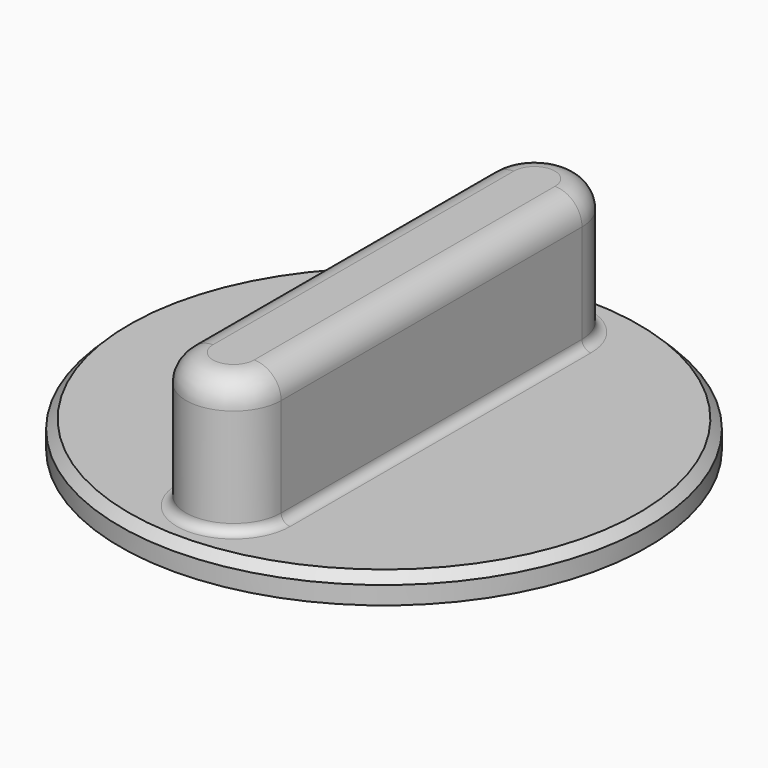
from build123d import *

# Parameters (mm, degrees)
SKETCH018_R     = 29.334526
PAD014_DEPTH    = 3
PAD015_DEPTH    = 15
CHAMFER002_SIZE = 1
FILLET011_R     = 1
FILLET012_R     = 3


with BuildPart() as part:
    # Sketch018 (on DatumPlane) → Pad014 (new body)
    with BuildSketch(Plane(origin=(17.147982, 155.978406, 843), x_dir=(0, 1, 0), z_dir=(0, 0, 1))):
        Circle(SKETCH018_R)
    extrude(amount=PAD014_DEPTH)

    # Sketch019 (on Face3 of Pad014) → Pad015 (join)
    with BuildSketch(Plane(origin=(17.147982, 155.978406, 846), x_dir=(0, 1, 0), z_dir=(0, 0, 1))):
        with BuildLine():
            ThreePointArc((-20.899313, 5.287957), (-26.18727, 0), (-20.899313, -5.287957))
            Line((-20.899313, -5.287957), (20.899313, -5.287957))
            ThreePointArc((20.899313, -5.287957), (26.18727, 0), (20.899313, 5.287957))
            Line((-20.899313, 5.287957), (20.899313, 5.287957))
        make_face()
    extrude(amount=PAD015_DEPTH)

    # Chamfer002
    chamfer002_edges = [part.edges().sort_by_distance(p)[0] for p in [
        (17.147982, 126.64388, 846),
    ]]
    chamfer(chamfer002_edges, length=CHAMFER002_SIZE)

    # Fillet011
    fillet011_edges = [part.edges().sort_by_distance(p)[0] for p in [
        (22.435939, 155.978406, 846),
    ]]
    fillet(fillet011_edges, radius=FILLET011_R)

    # Fillet012
    fillet012_edges = [part.edges().sort_by_distance(p)[0] for p in [
        (22.435939, 155.978406, 861),
    ]]
    fillet(fillet012_edges, radius=FILLET012_R)


solid = part.part
